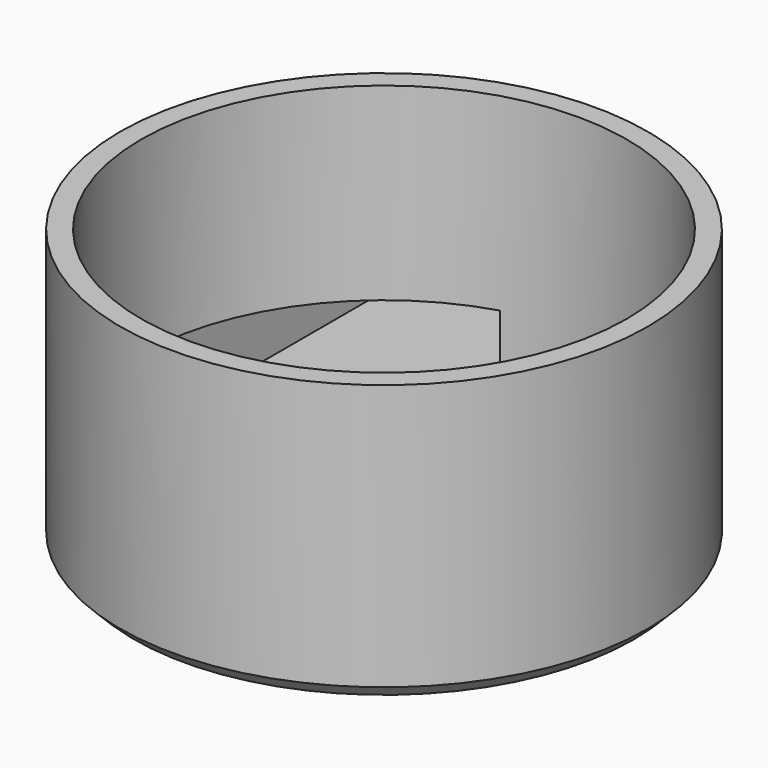
from build123d import *

# Parameters (mm, degrees)
F0_R     = 17.35
F1_DEPTH = 1.5
F0_R_2   = 18.85
F2_DEPTH = 20
F3_W     = 12.5
F3_H     = 5
F4_DEPTH = 25
F6_W     = 15.35
F6_H     = 8
F6_W_2   = 12.5
F6_H_2   = 5
F8_SIZE  = 1


with BuildPart() as f1:
    # F0 (on Top) → F1 (new body)
    with BuildSketch(Plane.XY):
        Circle(F0_R)
    extrude(amount=F1_DEPTH)

    # F0 (on Top) → F2 (join)
    with BuildSketch(Plane.XY):
        Circle(F0_R_2)
        Circle(F0_R, mode=Mode.SUBTRACT)
    extrude(amount=F2_DEPTH)

    # F3 (on Front) → F4 (cut)
    with BuildSketch(Plane.XZ):
        with Locations((-11.25, 4)):
            Rectangle(F3_W, F3_H)
    extrude(amount=-F4_DEPTH, mode=Mode.SUBTRACT)

    # F6 (on offset) → F7 (join, up to the next surface of F1)
    with BuildSketch(Plane.XZ.offset(-25)):
        with Locations((-11.175, 4)):
            Rectangle(F6_W, F6_H)
        with Locations((-11.25, 4)):
            Rectangle(F6_W_2, F6_H_2, mode=Mode.SUBTRACT)
    extrude(until=Until.NEXT)

    # F8
    f8_edges = [f1.edges().sort_by_distance(p)[0] for p in [
        (12.02804, 14.513743, 0),
        (-3.5, 21.761108, 0),
        (-11.175, 25, 0),
        (-18.85, 12.5, 0),
        (0, -18.85, 0),
    ]]
    chamfer(f8_edges, length=F8_SIZE)


solid = f1.part
